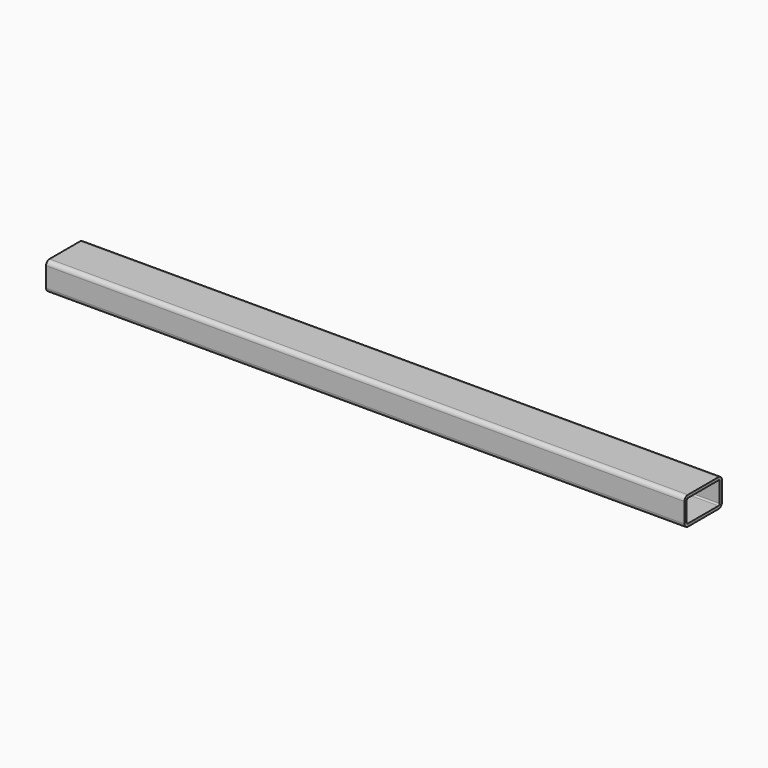
from build123d import *

# Parameters (mm, degrees)
F0_W     = 50
F0_H     = 30
F0_W_2   = 44
F0_H_2   = 24
F1_DEPTH = 341
F2_R     = 1.5
F3_R     = 4.5


with BuildPart() as f1:
    # F0 (on Right) → F1 (new body, symmetric)
    with BuildSketch(Plane.YZ):
        Rectangle(F0_W, F0_H)
        Rectangle(F0_W_2, F0_H_2, mode=Mode.SUBTRACT)
    extrude(amount=F1_DEPTH, both=True)

    # F2
    f2_edges = [f1.edges().sort_by_distance(p)[0] for p in [
        (0, -22, -12),
        (0, -22, 12),
        (0, 22, -12),
        (0, 22, 12),
    ]]
    fillet(f2_edges, radius=F2_R)

    # F3
    f3_edges = [f1.edges().sort_by_distance(p)[0] for p in [
        (0, -25, 15),
        (0, -25, -15),
        (0, 25, -15),
        (0, 25, 15),
    ]]
    fillet(f3_edges, radius=F3_R)


solid = f1.part
